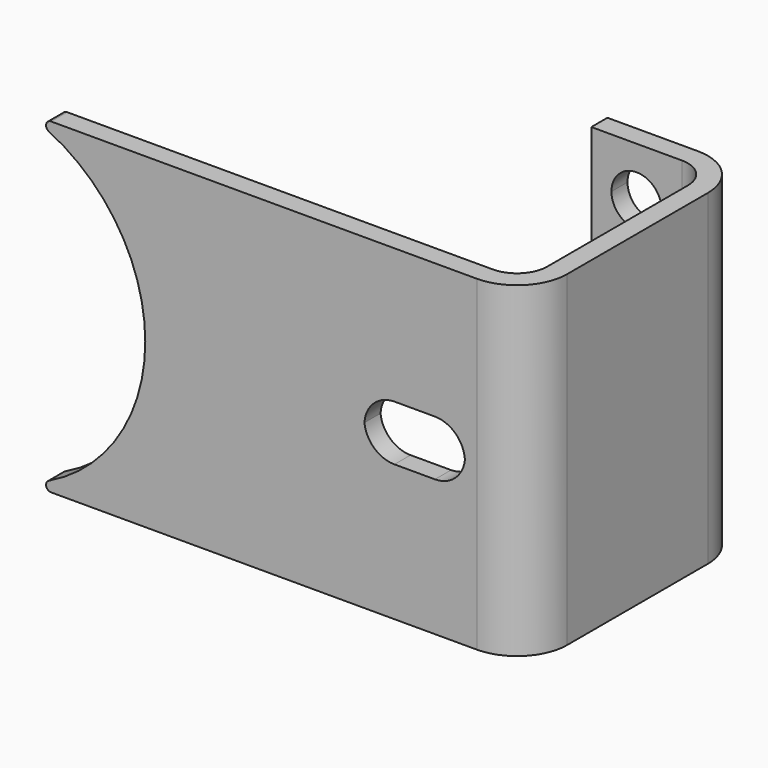
from build123d import *

# Parameters (mm, degrees)
F1_DEPTH = 65
F3_DEPTH = 25
F5_DEPTH = 25
F6_DEPTH = 11
F7_R     = 1
F8_R     = 1


with BuildPart() as f1:
    # F0 (on Top) → F1 (new body)
    with BuildSketch(Plane.XY):
        with BuildLine():
            Line((28.8081228733, 30.691023916), (10.8081228733, 30.691023916))
            Line((10.8081228733, 30.691023916), (10.8081228733, 26.691023916))
            Line((10.8081228733, 26.691023916), (28.8081228733, 26.691023916))
            ThreePointArc((28.8081228733, 26.691023916), (33.0507635604, 24.9336646031), (34.8081228733, 20.691023916))
            Line((34.8081228733, 20.691023916), (34.8081228733, 19.2851312459))
            Line((34.8081228733, 19.2851312459), (34.8081228733, -14.308976084))
            ThreePointArc((34.8081228733, -14.308976084), (33.0507635604, -18.5516167711), (28.8081228733, -20.308976084))
            Line((28.8081228733, -20.308976084), (-71.1918771267, -20.308976084))
            Line((-71.1918771267, -20.308976084), (-71.1918771267, -22.308976084))
            Line((-71.1918771267, -22.308976084), (-71.1918771267, -24.308976084))
            Line((-71.1918771267, -24.308976084), (28.8081228733, -24.308976084))
            ThreePointArc((28.8081228733, -24.308976084), (35.8791906852, -21.3800438959), (38.8081228733, -14.308976084))
            Line((38.8081228733, -14.308976084), (38.8081228733, 20.691023916))
            ThreePointArc((38.8081228733, 20.691023916), (35.8791906852, 27.7620917279), (28.8081228733, 30.691023916))
        make_face()
    extrude(amount=F1_DEPTH)

    # F2 (on face) → F3 (cut)
    with BuildSketch(Plane(origin=(0, 30.691023916, 0), x_dir=(-1, 0, 0), z_dir=(0, 1, 0))):
        with BuildLine():
            ThreePointArc((-14.8081228733, 55), (-16.2725889674, 58.5355339059), (-19.8081228733, 60))
            ThreePointArc((-19.8081228733, 60), (-23.3436567792, 51.4644660941), (-14.8081228733, 55))
        make_face()
        with BuildLine():
            ThreePointArc((-14.8081228733, 10), (-23.3436567792, 13.5355339059), (-19.8081228733, 5))
            ThreePointArc((-19.8081228733, 5), (-16.2725889674, 6.4644660941), (-14.8081228733, 10))
        make_face()
    extrude(amount=-F3_DEPTH, mode=Mode.SUBTRACT)

    # F4 (on face) → F5 (cut)
    with BuildSketch(Plane(origin=(0, -20.308976084, 0), x_dir=(-1, 0, 0), z_dir=(0, 1, 0))):
        with BuildLine():
            ThreePointArc((-6.4388471842, 32.5), (-8.3123065892, 36.4995007653), (-12.4155679156, 38.1332397291))
            Line((-12.4155679156, 38.1332397291), (-20.4500670994, 38.1332397291))
            ThreePointArc((-20.4500670994, 38.1332397291), (-24.5609939033, 36.5036265326), (-26.4388471842, 32.5))
            ThreePointArc((-26.4388471842, 32.5), (-24.4848723268, 28.6723295991), (-20.4723568049, 27.1332397291))
            Line((-20.4723568049, 27.1332397291), (-12.4053375634, 27.1332397291))
            ThreePointArc((-12.4053375634, 27.1332397291), (-8.3928220416, 28.6723295991), (-6.4388471842, 32.5))
        make_face()
    extrude(amount=-F5_DEPTH, mode=Mode.SUBTRACT)

    # F4 (on face) → F6 (cut)
    with BuildSketch(Plane(origin=(0, -20.308976084, 0), x_dir=(-1, 0, 0), z_dir=(0, 1, 0))):
        with BuildLine():
            ThreePointArc((61.204384949, 0), (91.3961497684, 5.1542989298), (105.1918771267, 32.5))
            ThreePointArc((105.1918771267, 32.5), (91.3961497684, 59.8457010702), (61.204384949, 65))
            Line((61.204384949, 65), (71.1918771267, 65))
            Line((71.1918771267, 65), (71.1918771267, 0))
            Line((71.1918771267, 0), (61.204384949, 0))
        make_face()
        with BuildLine():
            Line((71.1918771267, 65), (61.204384949, 65))
            ThreePointArc((61.204384949, 65), (37.1918771267, 32.5), (61.204384949, 0))
            Line((61.204384949, 0), (71.1918771267, 0))
            Line((71.1918771267, 0), (71.1918771267, 65))
        make_face()
    extrude(amount=-F6_DEPTH, mode=Mode.SUBTRACT)

    # F7
    f7_edges = [f1.edges().sort_by_distance(p)[0] for p in [
        (-61.204385, -22.308976, 65),
    ]]
    fillet(f7_edges, radius=F7_R)

    # F8
    f8_edges = [f1.edges().sort_by_distance(p)[0] for p in [
        (-61.204385, -22.308976, 0),
    ]]
    fillet(f8_edges, radius=F8_R)


solid = f1.part
